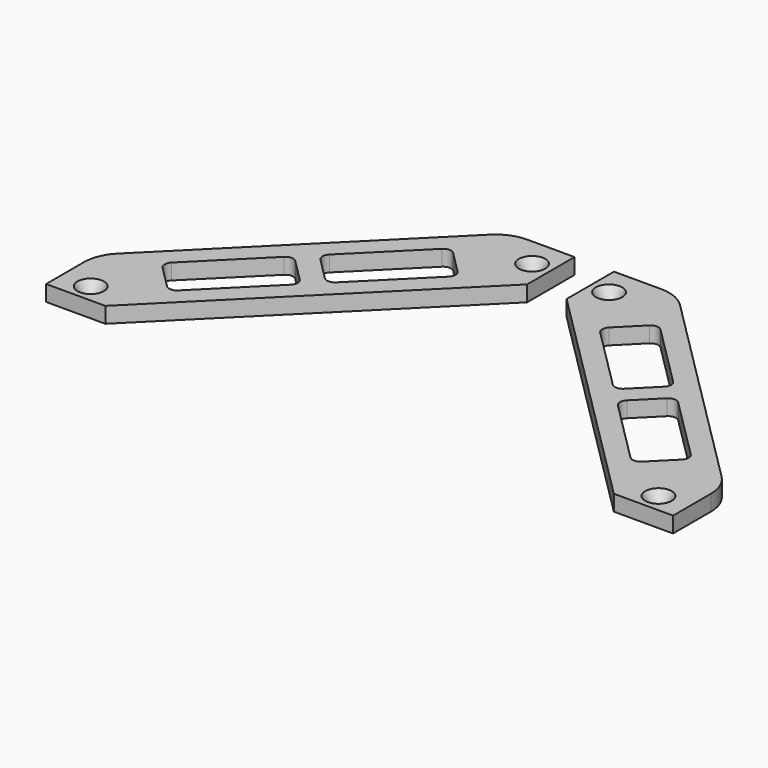
from build123d import *

# Parameters (mm, degrees)
F0_R     = 1.75
F1_DEPTH = 4
F2_R     = 10
F3_R     = 2
F4_SIZE2 = 1.6
F4_SIZE  = 2.8


with BuildPart() as f1:
    # F0 (on Top) → F1 (new body)
    with BuildSketch(Plane.XY):
        Polygon((16.113648, 0), (0, 0), (0, -15), (59.4, -74.3), (74.4, -74.3), (74.4, -58.188227), align=None)
        with Locations((66.9, -69.55)):
            Circle(F0_R, mode=Mode.SUBTRACT)
        Polygon((43.485104, -34.390495), (62.176472, -53.050396), (53.698342, -61.542823), (35.006974, -42.882922), align=None, mode=Mode.SUBTRACT)
        Polygon((31.468463, -39.350367), (12.777095, -20.690466), (21.255225, -12.198039), (39.946593, -30.857941), align=None, mode=Mode.SUBTRACT)
        with Locations((4.75, -7.5)):
            Circle(F0_R, mode=Mode.SUBTRACT)
    extrude(amount=F1_DEPTH)

    # F2
    f2_edges = [f1.edges().sort_by_distance(p)[0] for p in [
        (16.113648, 0, 2),
        (74.4, -58.188227, 2),
    ]]
    fillet(f2_edges, radius=F2_R)

    # F3
    f3_edges = [f1.edges().sort_by_distance(p)[0] for p in [
        (21.255225, -12.198039, 2),
        (12.777095, -20.690466, 2),
        (39.946593, -30.857941, 2),
        (31.468463, -39.350367, 2),
        (53.698342, -61.542823, 2),
        (62.176472, -53.050396, 2),
        (43.485104, -34.390495, 2),
        (35.006974, -42.882922, 2),
    ]]
    fillet(f3_edges, radius=F3_R)

    # F4
    f4_edges = [f1.edges().sort_by_distance(p)[0] for p in [
        (3, -7.5, 4),
        (65.15, -69.55, 4),
    ]]
    chamfer(f4_edges, length=F4_SIZE, length2=F4_SIZE2)


with BuildPart() as f6_1:
    # F6: instance of F1
    add(f1.part.mirror(Plane.YZ.offset(-5)))


solid = Compound([f1.part, f6_1.part])
